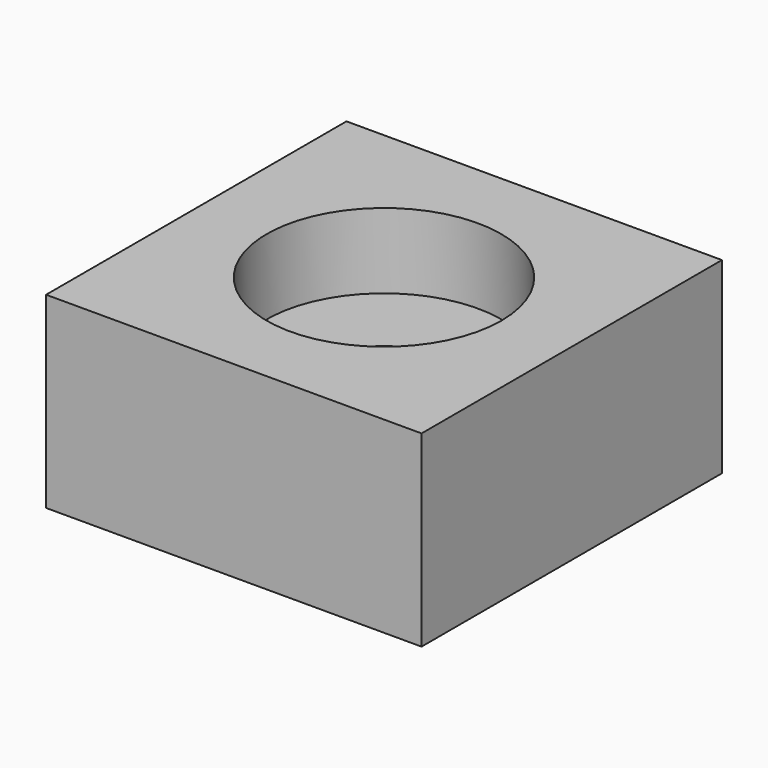
from build123d import *

# Parameters (mm, degrees)
SKETCH_W        = 40
SKETCH_H        = 40
PAD_DEPTH       = 20
SKETCH001_R     = 3.05
POCKET_DEPTH    = 15
SKETCH002_R     = 12.5
POCKET001_DEPTH = 8


with BuildPart() as part:
    # Sketch → Pad (new body)
    with BuildSketch(Plane.XY):
        with Locations((20, 20)):
            Rectangle(SKETCH_W, SKETCH_H)
    extrude(amount=PAD_DEPTH)

    # Sketch001 (on Face6 of Pad) → Pocket (cut)
    with BuildSketch(Plane.XY.offset(20)):
        with Locations((20, 20)):
            Circle(SKETCH001_R)
    extrude(amount=-POCKET_DEPTH, mode=Mode.SUBTRACT)

    # Sketch002 (on Face5 of Pocket) → Pocket001 (cut)
    with BuildSketch(Plane.XY.offset(20)):
        with Locations((20, 20)):
            Circle(SKETCH002_R)
    extrude(amount=-POCKET001_DEPTH, mode=Mode.SUBTRACT)


solid = part.part
